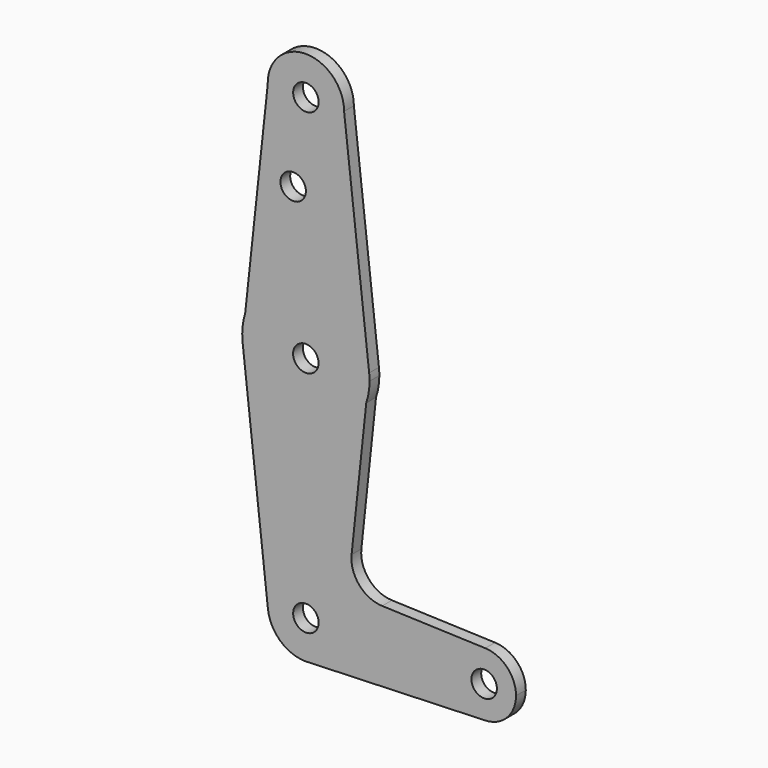
from build123d import *

# Parameters (mm, degrees)
F0_R     = 3.175
F1_DEPTH = 3.048


with BuildPart() as f1:
    # F0 (on Front) → F1 (new body)
    with BuildSketch(Plane.XZ):
        with BuildLine():
            ThreePointArc((-29.453828465, 92.7180769239), (-19.7832374958, 83.4948991655), (-10.4085741018, 93.0187126824))
            ThreePointArc((-10.4085741018, 93.0187126824), (-20.0839107078, 102.5425261993), (-29.453828465, 92.7180769239))
        make_face()
        with Locations((-19.9335741018, 93.0187126824)):
            Circle(F0_R, mode=Mode.SUBTRACT)
        with BuildLine():
            Line((-4.1587478333, 37.6492971932), (-10.4085741018, 93.0187126824))
            ThreePointArc((-10.4085741018, 93.0187126824), (-19.7832374958, 83.4948991655), (-29.453828465, 92.7180769239))
            Line((-29.453828465, 92.7180769239), (-35.0721568134, 40.6477228816))
            ThreePointArc((-35.0721568134, 40.6477228816), (-18.4009813255, 51.6695602667), (-4.1587478333, 37.6492971932))
        make_face()
        with Locations((-23.1085741018, 72.3939126824)):
            Circle(F0_R, mode=Mode.SUBTRACT)
        with BuildLine():
            Line((-4.8831301197, 30.8189838836), (-4.1587478333, 37.6492971932))
            ThreePointArc((-4.1587478333, 37.6492971932), (-18.4009813255, 51.6695602667), (-35.0721568134, 40.6477228816))
            Line((-35.0721568134, 40.6477228816), (-35.7431525576, 34.4289717165))
            Line((-35.7431525576, 34.4289717165), (-35.6709981813, 33.7832610907))
            ThreePointArc((-35.6709981813, 33.7832610907), (-21.4549945742, 20.0667854346), (-4.8831301197, 30.8189838836))
        make_face()
        with Locations((-19.9516182957, 35.7062442077)):
            Circle(F0_R, mode=Mode.SUBTRACT)
        with BuildLine():
            ThreePointArc((-4.0585741018, 35.8687126824), (-4.0836373194, 36.7604127408), (-4.1587478333, 37.6492971932))
            Line((-4.1587478333, 37.6492971932), (-4.8831301197, 30.8189838836))
            ThreePointArc((-4.8831301197, 30.8189838836), (-4.2660691438, 33.3104098481), (-4.0585741018, 35.8687126824))
        make_face()
        with BuildLine():
            Line((-35.7431525576, 34.4289717165), (-35.0721568134, 40.6477228816))
            ThreePointArc((-35.0721568134, 40.6477228816), (-35.7169636752, 37.5717213657), (-35.7431525576, 34.4289717165))
        make_face()
        with BuildLine():
            Line((-8.5386764525, -3.649731381), (-4.8831301197, 30.8189838836))
            ThreePointArc((-4.8831301197, 30.8189838836), (-21.4549945742, 20.0667854346), (-35.6709981813, 33.7832610907))
            Line((-35.6709981813, 33.7832610907), (-29.3996571358, -22.3390665923))
            ThreePointArc((-29.3996571358, -22.3390665923), (-20.4632835039, -11.7710279652), (-10.4085741018, -21.2812873176))
            ThreePointArc((-10.4085741018, -21.2812873176), (-12.9007972588, -27.7051237785), (-19.0732827372, -30.767357303))
            Line((-19.0732827372, -30.767357303), (24.7973318388, -29.2138151683))
            ThreePointArc((24.7973318388, -29.2138151683), (16.5789259337, -21.2805371782), (24.7988311728, -13.348812703))
            Line((24.7988311728, -13.348812703), (-0.9156696942, -12.4333467192))
            ThreePointArc((-0.9156696942, -12.4333467192), (-6.6371245654, -9.6991222401), (-8.5386764525, -3.649731381))
        make_face()
        with BuildLine():
            Line((-35.6709981813, 33.7832610907), (-35.7431525576, 34.4289717165))
            ThreePointArc((-35.7431525576, 34.4289717165), (-35.7103791584, 34.1057472246), (-35.6709981813, 33.7832610907))
        make_face()
        with BuildLine():
            ThreePointArc((-10.4085741018, -21.2812873176), (-20.4632835039, -11.7710279652), (-29.3996571358, -22.3390665923))
            ThreePointArc((-29.3996571358, -22.3390665923), (-26.3532192686, -28.3178902574), (-20.1207123252, -30.8044487824))
            Line((-20.1207123252, -30.8044487824), (-19.0732827372, -30.767357303))
            ThreePointArc((-19.0732827372, -30.767357303), (-12.9007972588, -27.7051237785), (-10.4085741018, -21.2812873176))
        make_face()
        with Locations((-19.9335741018, -21.2812873176)):
            Circle(F0_R, mode=Mode.SUBTRACT)
        with BuildLine():
            Line((-19.0732827372, -30.767357303), (-20.1207123252, -30.8044487824))
            ThreePointArc((-20.1207123252, -30.8044487824), (-19.5964869731, -30.8003207385), (-19.0732827372, -30.767357303))
        make_face()
        with BuildLine():
            ThreePointArc((32.4539258982, -21.2812873176), (30.2280586821, -15.7693768329), (24.7988311728, -13.348812703))
            ThreePointArc((24.7988311728, -13.348812703), (16.5789259337, -21.2805371782), (24.7973318388, -29.2138151683))
            ThreePointArc((24.7973318388, -29.2138151683), (30.2275377494, -26.7937375598), (32.4539258982, -21.2812873176))
        make_face()
        with Locations((24.5164258982, -21.2812873176)):
            Circle(F0_R, mode=Mode.SUBTRACT)
    extrude(amount=F1_DEPTH)


solid = f1.part
